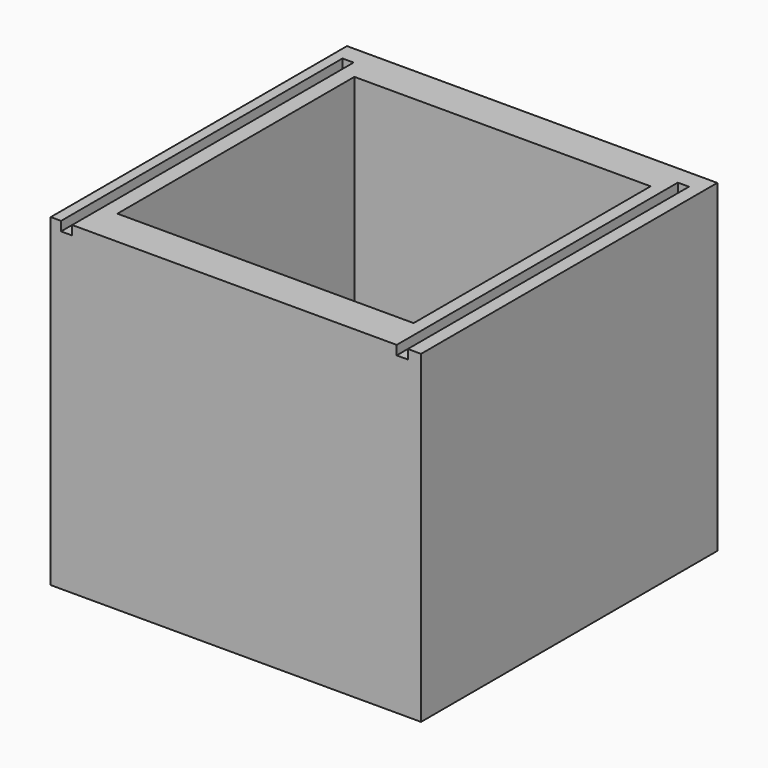
from build123d import *

# Parameters (mm, degrees)
F0_W     = 20.32
F0_H     = 20.32
F1_DEPTH = 2.54
F0_W_2   = 25.4
F0_H_2   = 25.4
F2_DEPTH = 21.59
F3_W     = 20.32
F3_H     = 20.32
F4_DEPTH = 0.635


with BuildPart() as f1:
    # F0 (on Top) → F1 (new body)
    with BuildSketch(Plane.XY):
        Rectangle(F0_W, F0_H)
    extrude(amount=F1_DEPTH)

    # F0 (on Top) → F2 (join)
    with BuildSketch(Plane.XY):
        Rectangle(F0_W_2, F0_H_2)
        Rectangle(F0_W, F0_H, mode=Mode.SUBTRACT)
    extrude(amount=F2_DEPTH)

    # F3 (on face) → F4 (join)
    with BuildSketch(Plane.XY.offset(21.59)):
        Polygon((-11.991714, 11.43), (-11.229714, 11.43), (-11.229714, -11.43), (-11.229714, -12.7), (11.030424, -12.7), (11.030424, -11.454967), (11.030424, 11.405033), (11.792424, 11.405033), (11.792424, -11.454967), (11.792424, -12.7), (12.7, -12.7), (12.7, 12.7), (-12.7, 12.7), (-12.7, -12.7), (-11.991714, -12.7), (-11.991714, -11.43), align=None)
        Rectangle(F3_W, F3_H, mode=Mode.SUBTRACT)
    extrude(amount=F4_DEPTH)


solid = f1.part
